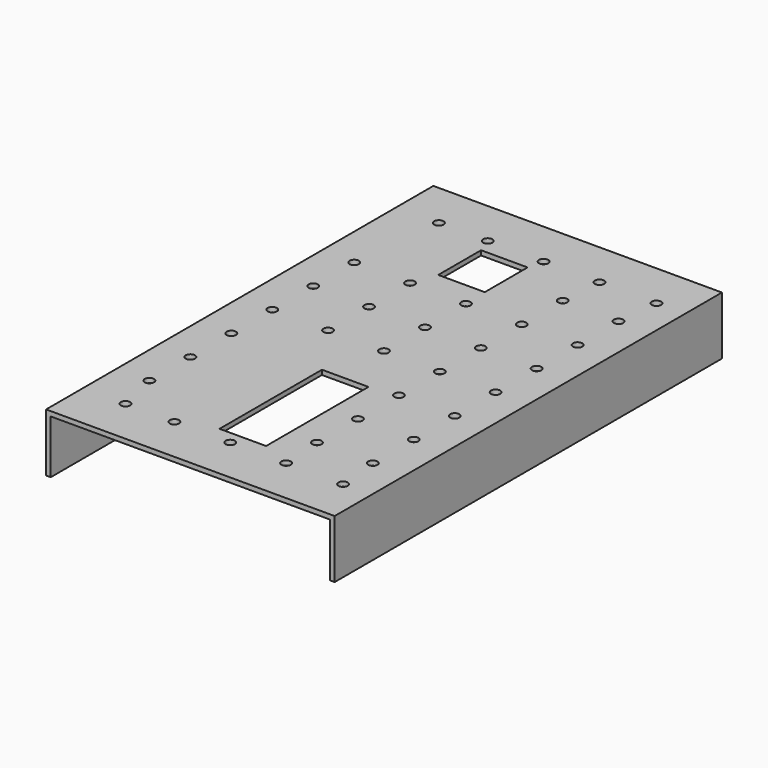
from build123d import *

# Parameters (mm, degrees)
F0_W     = 123.999998
F0_H     = 229.999998
F0_W_2   = 119.999998
F0_H_2   = 225.999998
F1_DEPTH = 25
F0_R     = 2
F0_W_3   = 20
F0_H_3   = 55
F0_H_4   = 23
F2_DEPTH = 2
F4_W     = 11
F4_H     = 74.715774
F5_DEPTH = 150


with BuildPart() as f1:
    # F0 (on Top) → F1 (new body)
    with BuildSketch(Plane.XY):
        Rectangle(F0_W, F0_H)
        Rectangle(F0_W_2, F0_H_2, mode=Mode.SUBTRACT)
    extrude(amount=-F1_DEPTH)

    # F0 (on Top) → F2 (join)
    with BuildSketch(Plane.XY):
        Rectangle(F0_W_2, F0_H_2)
        with Locations((-47.997308, -66.012282)):
            Circle(F0_R, mode=Mode.SUBTRACT)
        with Locations((-43.749999, -84.15)):
            Circle(F0_R, mode=Mode.SUBTRACT)
        with Locations((-22.75, -84.15)):
            Circle(F0_R, mode=Mode.SUBTRACT)
        with Locations((-47.997308, -44.012282)):
            Circle(F0_R, mode=Mode.SUBTRACT)
        with Locations((-47.997308, -22.012282)):
            Circle(F0_R, mode=Mode.SUBTRACT)
        with Locations((-47.997308, -0.012282)):
            Circle(F0_R, mode=Mode.SUBTRACT)
        with Locations((-23.997308, -0.012282)):
            Circle(F0_R, mode=Mode.SUBTRACT)
        with Locations((1.25, -84.15)):
            Circle(F0_R, mode=Mode.SUBTRACT)
        with Locations((25.25, -84.15)):
            Circle(F0_R, mode=Mode.SUBTRACT)
        with Locations((24.002692, -66.012282)):
            Circle(F0_R, mode=Mode.SUBTRACT)
        with Locations((49.750001, -84.15)):
            Circle(F0_R, mode=Mode.SUBTRACT)
        with Locations((48.002692, -66.012282)):
            Circle(F0_R, mode=Mode.SUBTRACT)
        with Locations((2.25, -51.15)):
            Rectangle(F0_W_3, F0_H_3, mode=Mode.SUBTRACT)
        with Locations((24.002692, -44.012282)):
            Circle(F0_R, mode=Mode.SUBTRACT)
        with Locations((0.002692, -0.012282)):
            Circle(F0_R, mode=Mode.SUBTRACT)
        with Locations((24.002692, -22.012282)):
            Circle(F0_R, mode=Mode.SUBTRACT)
        with Locations((24.002692, -0.012282)):
            Circle(F0_R, mode=Mode.SUBTRACT)
        with Locations((48.002692, -44.012282)):
            Circle(F0_R, mode=Mode.SUBTRACT)
        with Locations((48.002692, -22.012282)):
            Circle(F0_R, mode=Mode.SUBTRACT)
        with Locations((48.002692, -0.012282)):
            Circle(F0_R, mode=Mode.SUBTRACT)
        with Locations((-47.997308, 21.987718)):
            Circle(F0_R, mode=Mode.SUBTRACT)
        with Locations((-47.997308, 43.987718)):
            Circle(F0_R, mode=Mode.SUBTRACT)
        with Locations((-23.997308, 21.987718)):
            Circle(F0_R, mode=Mode.SUBTRACT)
        with Locations((-23.997308, 43.987718)):
            Circle(F0_R, mode=Mode.SUBTRACT)
        with Locations((-43.749999, 84.15)):
            Circle(F0_R, mode=Mode.SUBTRACT)
        with Locations((-22.75, 84.15)):
            Circle(F0_R, mode=Mode.SUBTRACT)
        with Locations((-10.3, 66)):
            Rectangle(F0_W_3, F0_H_4, mode=Mode.SUBTRACT)
        with Locations((0.002692, 21.987718)):
            Circle(F0_R, mode=Mode.SUBTRACT)
        with Locations((24.002692, 21.987718)):
            Circle(F0_R, mode=Mode.SUBTRACT)
        with Locations((0.002692, 43.987718)):
            Circle(F0_R, mode=Mode.SUBTRACT)
        with Locations((24.002692, 43.987718)):
            Circle(F0_R, mode=Mode.SUBTRACT)
        with Locations((48.002692, 21.987718)):
            Circle(F0_R, mode=Mode.SUBTRACT)
        with Locations((48.002692, 43.987718)):
            Circle(F0_R, mode=Mode.SUBTRACT)
        with Locations((1.25, 84.15)):
            Circle(F0_R, mode=Mode.SUBTRACT)
        with Locations((24.002692, 65.987718)):
            Circle(F0_R, mode=Mode.SUBTRACT)
        with Locations((25.25, 84.15)):
            Circle(F0_R, mode=Mode.SUBTRACT)
        with Locations((48.002692, 65.987718)):
            Circle(F0_R, mode=Mode.SUBTRACT)
        with Locations((49.750001, 84.15)):
            Circle(F0_R, mode=Mode.SUBTRACT)
    extrude(amount=-F2_DEPTH)

    # F4 (on face) → F5 (cut)
    with BuildSketch(Plane.YZ.offset(61.999999)):
        Polygon((114.999999, -88.085778), (114.999999, 20.739374), (103.999999, 20.739374), (103.999999, -53.001843), (103.999999, -88.085778), align=None)
        Polygon((103.999999, -88.085778), (103.999999, -53.001843), (-103.999999, -53.001843), (-114.999999, -53.001843), (-114.999999, -88.085778), align=None)
        with Locations((-109.499999, -15.643956)):
            Rectangle(F4_W, F4_H)
    extrude(amount=-F5_DEPTH, mode=Mode.SUBTRACT)


solid = f1.part
